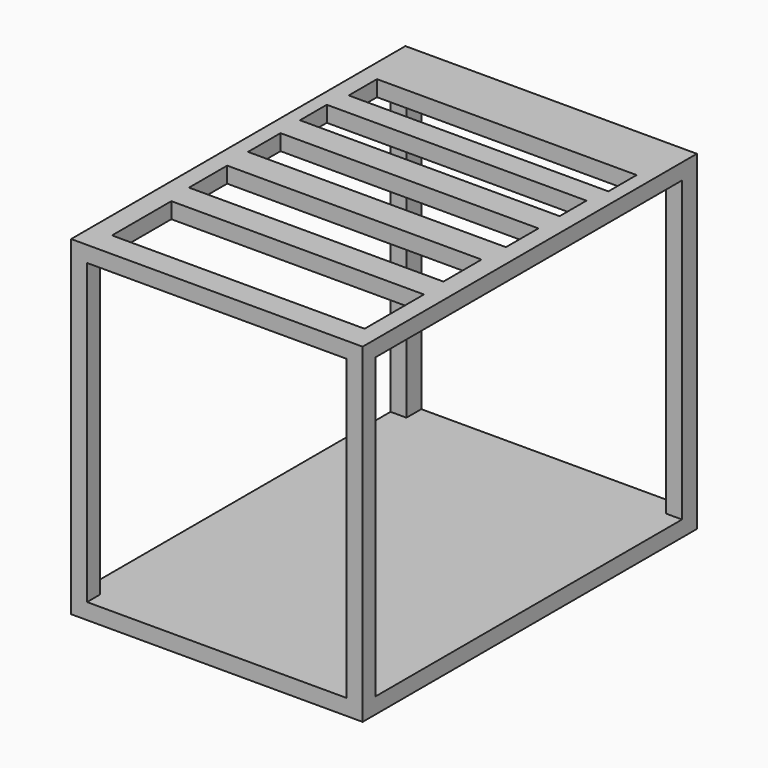
from build123d import *

# Parameters (mm, degrees)
F0_W     = 47.487952
F0_H     = 53.819674
F0_W_2   = 42.307448
F0_H_2   = 48.639174
F1_DEPTH = 68.072
F2_W     = 62.453845
F2_H     = 48.639174
F3_DEPTH = 68.072
F4_W     = 41.156224
F4_H     = 12.087841
F4_W_2   = 41.44403
F4_H_2   = 7.770758
F4_W_3   = 42.01964
F4_H_3   = 6.619532
F4_W_4   = 42.307448
F4_H_4   = 5.468311
F4_W_5   = 42.307446
F4_H_5   = 5.756115
F5_DEPTH = 25.4


with BuildPart() as f1:
    # F0 (on Front) → F1 (new body)
    with BuildSketch(Plane.XZ):
        Rectangle(F0_W, F0_H)
        Rectangle(F0_W_2, F0_H_2, mode=Mode.SUBTRACT)
    extrude(amount=F1_DEPTH)

    # F2 (on face) → F3 (cut)
    with BuildSketch(Plane.YZ.offset(23.743976)):
        with Locations((-34.248885, 0)):
            Rectangle(F2_W, F2_H)
    extrude(amount=-F3_DEPTH, mode=Mode.SUBTRACT)

    # F4 (on face) → F5 (cut)
    with BuildSketch(Plane.XY.offset(26.909837)):
        with Locations((0.273644, -58.007023)):
            Rectangle(F4_W, F4_H)
        with Locations((-0.158064, -43.760637)):
            Rectangle(F4_W_2, F4_H_2)
        with Locations((-0.158064, -31.960601)):
            Rectangle(F4_W_3, F4_H_3)
        with Locations((-0.301968, -21.599593)):
            Rectangle(F4_W_4, F4_H_4)
        with Locations((0.273644, -12.245907)):
            Rectangle(F4_W_5, F4_H_5)
    extrude(amount=-F5_DEPTH, mode=Mode.SUBTRACT)


solid = f1.part
